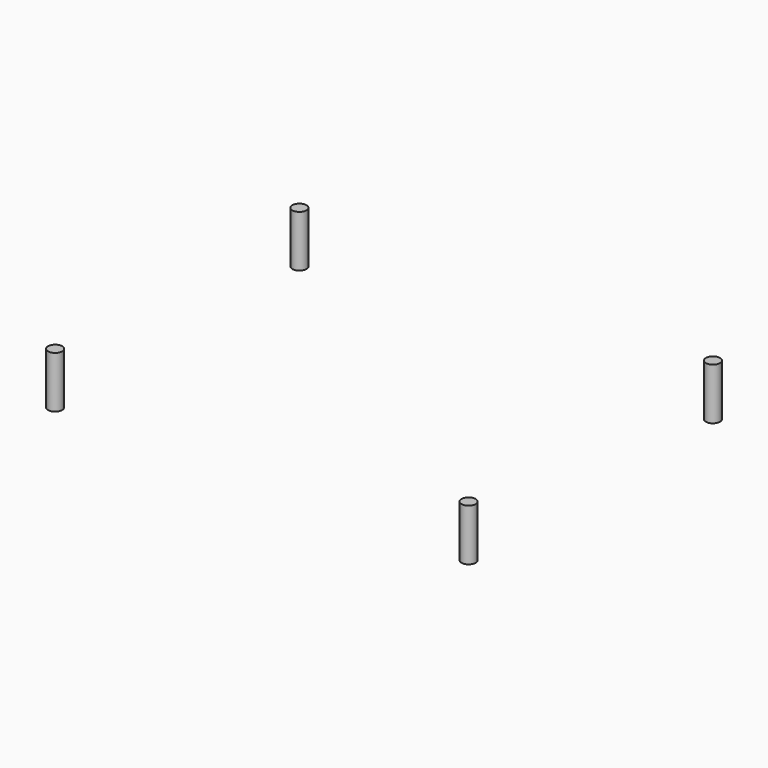
from build123d import *

# Parameters (mm, degrees)
CYLINDER003_R     = 1.5
CYLINDER003_DEPTH = 11
CYLINDER005_R     = 1.5
CYLINDER005_DEPTH = 11
CYLINDER007_R     = 1.5
CYLINDER007_DEPTH = 11
CYLINDER001_R     = 1.5
CYLINDER001_DEPTH = 11


with BuildPart() as zylinder003:
    # Cylinder003 → Cylinder003 (new body)
    with BuildSketch(Plane(origin=(90.5, 2.5, 0), x_dir=(1, 0, 0), z_dir=(0, 0, 1))):
        Circle(CYLINDER003_R)
    extrude(amount=CYLINDER003_DEPTH)


with BuildPart() as zylinder005:
    # Cylinder005 → Cylinder005 (new body)
    with BuildSketch(Plane(origin=(90.5, 67.5, 0), x_dir=(1, 0, 0), z_dir=(0, 0, 1))):
        Circle(CYLINDER005_R)
    extrude(amount=CYLINDER005_DEPTH)


with BuildPart() as zylinder007:
    # Cylinder007 → Cylinder007 (new body)
    with BuildSketch(Plane(origin=(2.5, 67.5, 0), x_dir=(1, 0, 0), z_dir=(0, 0, 1))):
        Circle(CYLINDER007_R)
    extrude(amount=CYLINDER007_DEPTH)


with BuildPart() as fusion001:
    # Cylinder001 → Cylinder001 (new body)
    with BuildSketch(Plane(origin=(2.5, 2.5, 0), x_dir=(1, 0, 0), z_dir=(0, 0, 1))):
        Circle(CYLINDER001_R)
    extrude(amount=CYLINDER001_DEPTH)

    # Fusion001: union Zylinder003, Zylinder005, Zylinder007
    add(zylinder003.part)
    add(zylinder005.part)
    add(zylinder007.part)


with BuildPart() as fusion001_1:
    # Fusion001 placement: moved
    add(fusion001.part.moved(Location((0, 0, -12.6))))


solid = fusion001_1.part
